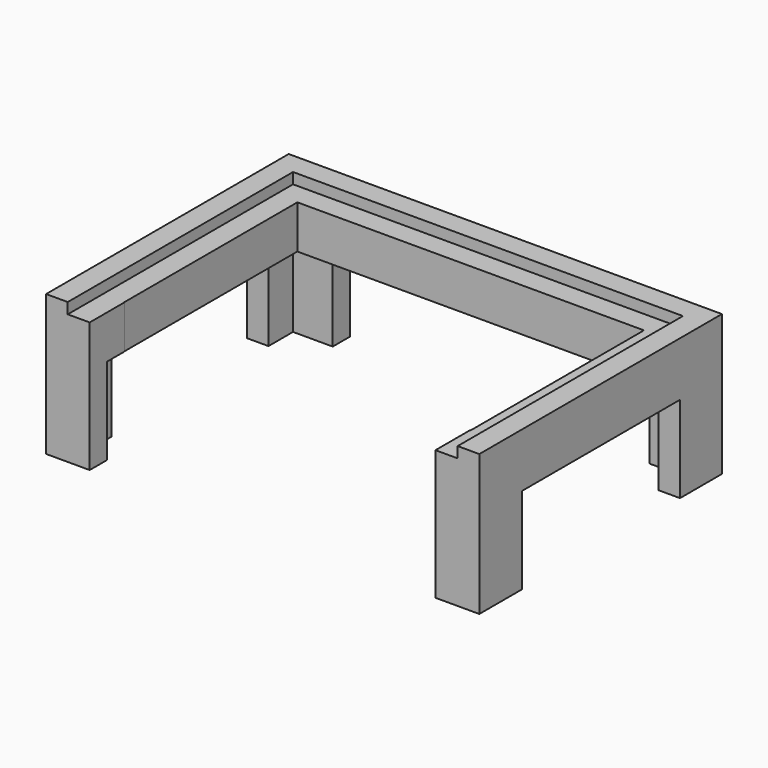
from build123d import *

# Parameters (mm, degrees)
F0_W     = 10
F0_H     = 91.1132134497
F0_W_2   = 10.2482907567
F0_H_2   = 10
F0_W_3   = 10.1232041232
F0_H_3   = 90.4400162399
F0_W_4   = 146.2950482965
F1_DEPTH = 20
F2_DEPTH = 25
F3_DEPTH = 40


with BuildPart() as f1:
    # F0 (on Top) → F1 (new body)
    with BuildSketch(Plane.XY):
        Polygon((90, 45.8233915269), (100, 45.8233915269), (100, 70), (74.6184438467, 70), (74.6184438467, 60), (90, 60), align=None)
        with Locations((95, 0.2667848021)):
            Rectangle(F0_W, F0_H)
        Polygon((79.7517092433, -60), (90, -60), (90, -45.2898219228), (90, 45.8233915269), (90, 60), (74.6184438467, 60), (-71.6766044497, 60), (-90, 60), (-90, 45.8233915269), (-90, -44.6166247129), (-90, -60), (-79.8767958768, -60), (-79.8767958768, -50), (-80, -50), (-80, 50), (80, 50), (80, -50), (79.7517092433, -50), align=None)
        Polygon((90, -70), (100, -70), (100, -45.2898219228), (90, -45.2898219228), (90, -60), align=None)
        with Locations((84.8758546216, -65)):
            Rectangle(F0_W_2, F0_H_2)
        Polygon((-100, -70), (-90, -70), (-90, -60), (-90, -44.6166247129), (-100, -44.6166247129), align=None)
        with Locations((-84.9383979384, -65)):
            Rectangle(F0_W_3, F0_H_2)
        with Locations((-95, 0.603383407)):
            Rectangle(F0_W, F0_H_3)
        Polygon((-71.6766044497, 60), (-71.6766044497, 70), (-100, 70), (-100, 45.8233915269), (-90, 45.8233915269), (-90, 60), align=None)
        with Locations((1.4709196985, 65)):
            Rectangle(F0_W_4, F0_H_2)
    extrude(amount=F1_DEPTH)

    # F0 (on Top) → F2 (join)
    with BuildSketch(Plane.XY):
        Polygon((-71.6766044497, 60), (-71.6766044497, 70), (-100, 70), (-100, 45.8233915269), (-90, 45.8233915269), (-90, 60), align=None)
        with Locations((-95, 0.603383407)):
            Rectangle(F0_W, F0_H_3)
        Polygon((-100, -70), (-90, -70), (-90, -60), (-90, -44.6166247129), (-100, -44.6166247129), align=None)
        with Locations((1.4709196985, 65)):
            Rectangle(F0_W_4, F0_H_2)
        Polygon((90, 45.8233915269), (100, 45.8233915269), (100, 70), (74.6184438467, 70), (74.6184438467, 60), (90, 60), align=None)
        with Locations((95, 0.2667848021)):
            Rectangle(F0_W, F0_H)
        Polygon((90, -70), (100, -70), (100, -45.2898219228), (90, -45.2898219228), (90, -60), align=None)
    extrude(amount=F2_DEPTH)

    # F0 (on Top) → F3 (join)
    with BuildSketch(Plane.XY):
        Polygon((-71.6766044497, 60), (-71.6766044497, 70), (-100, 70), (-100, 45.8233915269), (-90, 45.8233915269), (-90, 60), align=None)
        Polygon((-100, -70), (-90, -70), (-90, -60), (-90, -44.6166247129), (-100, -44.6166247129), align=None)
        with Locations((-84.9383979384, -65)):
            Rectangle(F0_W_3, F0_H_2)
        with Locations((84.8758546216, -65)):
            Rectangle(F0_W_2, F0_H_2)
        Polygon((90, -70), (100, -70), (100, -45.2898219228), (90, -45.2898219228), (90, -60), align=None)
        Polygon((90, 45.8233915269), (100, 45.8233915269), (100, 70), (74.6184438467, 70), (74.6184438467, 60), (90, 60), align=None)
    extrude(amount=-F3_DEPTH)


solid = f1.part
